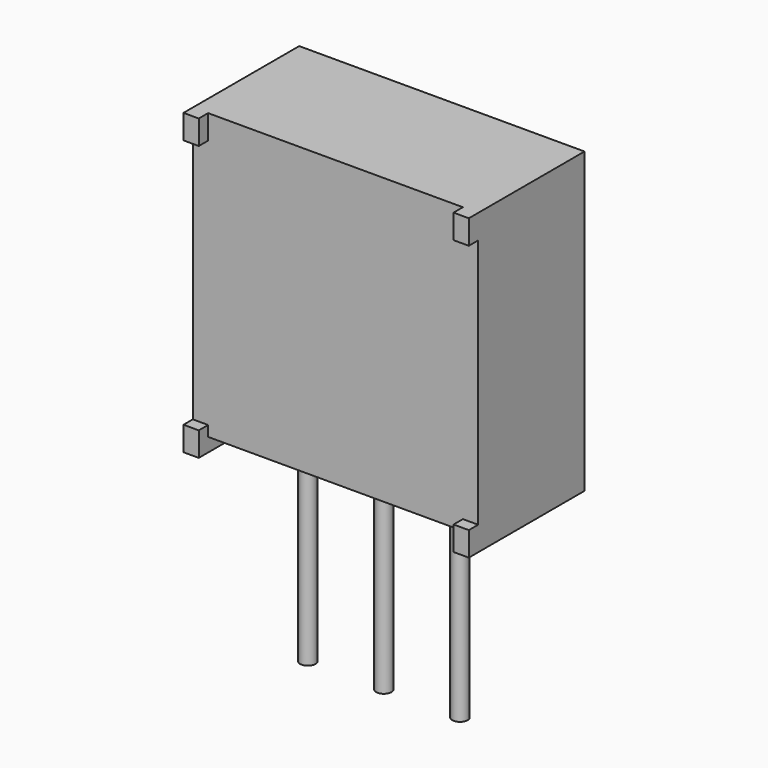
from build123d import *

# Parameters (mm, degrees)
SKETCH_W     = 9.53
SKETCH_H     = 9.52
PAD_DEPTH    = 4.44
SKETCH001_W  = 0.51
SKETCH001_H  = 0.81
PAD001_DEPTH = 4.83
SKETCH004_R  = 0.255
PAD003_DEPTH = 6.86


with BuildPart() as part:
    # Sketch → Pad (new body)
    with BuildSketch(Plane.XZ):
        with Locations((4.765, 4.76)):
            Rectangle(SKETCH_W, SKETCH_H)
    extrude(amount=PAD_DEPTH)

    # Sketch001 → Pad001 (join)
    with BuildSketch(Plane.XZ):
        with Locations((0.255, 9.115)):
            Rectangle(SKETCH001_W, SKETCH001_H)
        with Locations((9.275, 9.115)):
            Rectangle(SKETCH001_W, SKETCH001_H)
        with Locations((9.275, -0.055)):
            Rectangle(SKETCH001_W, SKETCH001_H)
        with Locations((0.255, -0.055)):
            Rectangle(SKETCH001_W, SKETCH001_H)
    extrude(amount=PAD001_DEPTH)

    # Sketch004 (on Face19 of Pad001) → Pad003 (join)
    with BuildSketch(Plane(origin=(0, 0, 0), x_dir=(1, 0, 0), z_dir=(0, 0, -1))):
        with Locations((2.225, 2.42)):
            Circle(SKETCH004_R)
        with Locations((4.765, 2.42)):
            Circle(SKETCH004_R)
        with Locations((7.305, 2.42)):
            Circle(SKETCH004_R)
    extrude(amount=PAD003_DEPTH)


solid = part.part
